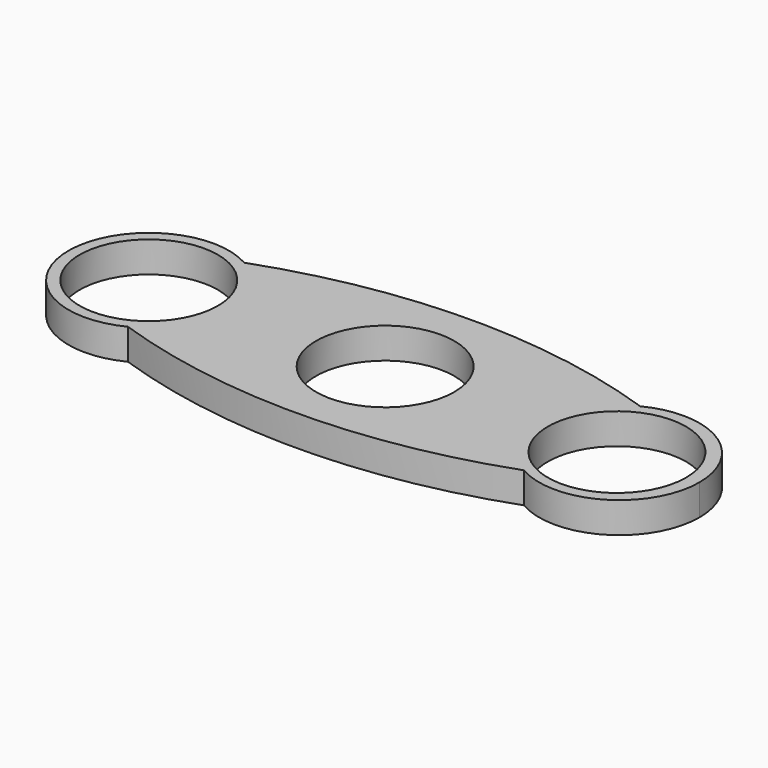
from build123d import *

# Parameters (mm, degrees)
F0_R     = 11.2
F1_DEPTH = 5


with BuildPart() as f1:
    # F0 (on Top) → F1 (new body)
    with BuildSketch(Plane.XY):
        with BuildLine():
            ThreePointArc((-31.686276, 11.066565), (-26.870049, 6.302201), (-25.104848, -0.238386))
            ThreePointArc((-25.104848, -0.238386), (-27.025294, -7.038641), (-32.219228, -11.829739))
            ThreePointArc((-32.219228, -11.829739), (-0.323343, -16.967196), (31.474137, -11.252206))
            ThreePointArc((31.474137, -11.252206), (24.89623, 0.355262), (32.007089, 11.644099))
            ThreePointArc((32.007089, 11.644099), (0.111205, 16.781556), (-31.686276, 11.066565))
        make_face()
        Circle(F0_R, mode=Mode.SUBTRACT)
        with BuildLine():
            ThreePointArc((-32.219228, -11.829739), (-27.025294, -7.038641), (-25.104848, -0.238386))
            ThreePointArc((-25.104848, -0.238386), (-26.870049, 6.302201), (-31.686276, 11.066565))
            ThreePointArc((-31.686276, 11.066565), (-51.101328, 0.06413), (-32.219228, -11.829739))
        make_face()
        with Locations((-38.104848, -0.238386)):
            Circle(F0_R, mode=Mode.SUBTRACT)
        with BuildLine():
            ThreePointArc((50.89271, 0.052746), (44.692965, 11.1323), (32.007089, 11.644099))
            ThreePointArc((32.007089, 11.644099), (24.89623, 0.355262), (31.474137, -11.252206))
            ThreePointArc((31.474137, -11.252206), (44.433297, -11.182054), (50.89271, 0.052746))
        make_face()
        with Locations((37.557383, 0)):
            Circle(F0_R, mode=Mode.SUBTRACT)
    extrude(amount=F1_DEPTH)


solid = f1.part
